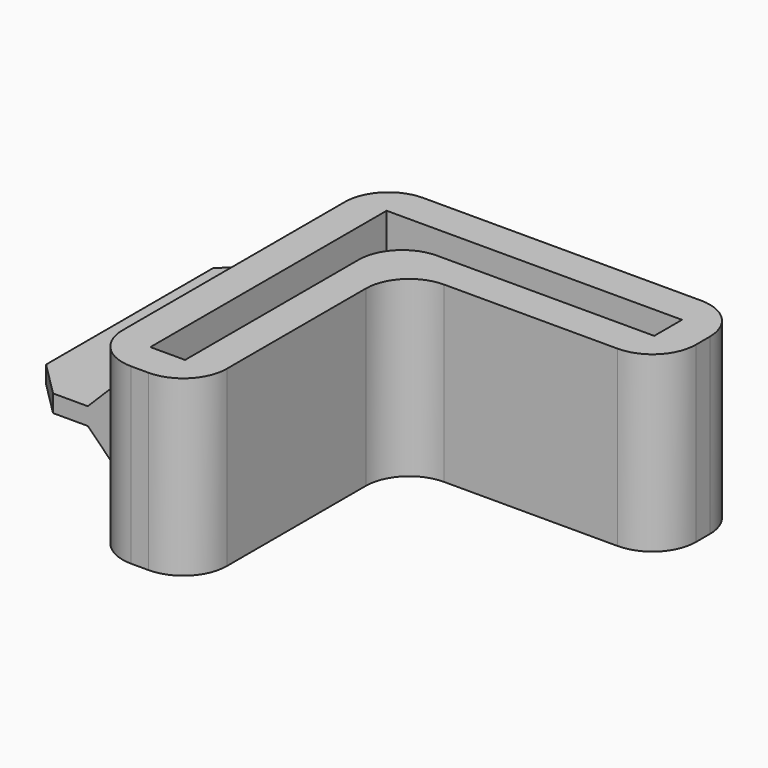
from build123d import *

# Parameters (mm, degrees)
F1_DEPTH = 12.7
F2_R     = 3.175
F3_W     = 20.32
F3_H     = 1.27
F4_DEPTH = 7.62
F5_SIZE  = 2.54


with BuildPart() as f1:
    # F0 (on Top) → F1 (new body)
    with BuildSketch(Plane.XY):
        Polygon((0, 24.13), (0, -2.194877), (0, -2.54), (7.62, -2.54), (7.62, 16.51), (26.67, 16.51), (26.67, 24.13), align=None)
        Polygon((5.08, 0), (2.54, 0), (2.54, 21.59), (5.08, 21.59), (24.13, 21.59), (24.13, 19.05), (5.08, 19.05), align=None, mode=Mode.SUBTRACT)
    extrude(amount=F1_DEPTH)

    # F2
    f2_edges = [f1.edges().sort_by_distance(p)[0] for p in [
        (26.67, 24.13, 6.35),
        (26.67, 16.51, 6.35),
        (5.08, 19.05, 6.35),
        (0, 24.13, 6.35),
        (7.62, -2.54, 6.35),
        (0, -2.54, 6.35),
        (7.62, 16.51, 6.35),
    ]]
    fillet(f2_edges, radius=F2_R)

    # F3 (on face) → F4 (join)
    with BuildSketch(Plane(origin=(0, 0, 0), x_dir=(0, -1, 0), z_dir=(-1, 0, 0))):
        with Locations((-10.795, 6.35)):
            Rectangle(F3_W, F3_H)
    extrude(amount=F4_DEPTH)

    # F5
    f5_edges = [f1.edges().sort_by_distance(p)[0] for p in [
        (0, 10.795, 5.715),
        (0, 10.795, 6.985),
        (-7.62, 20.955, 6.35),
        (-7.62, 0.635, 6.35),
    ]]
    chamfer(f5_edges, length=F5_SIZE)


solid = f1.part
